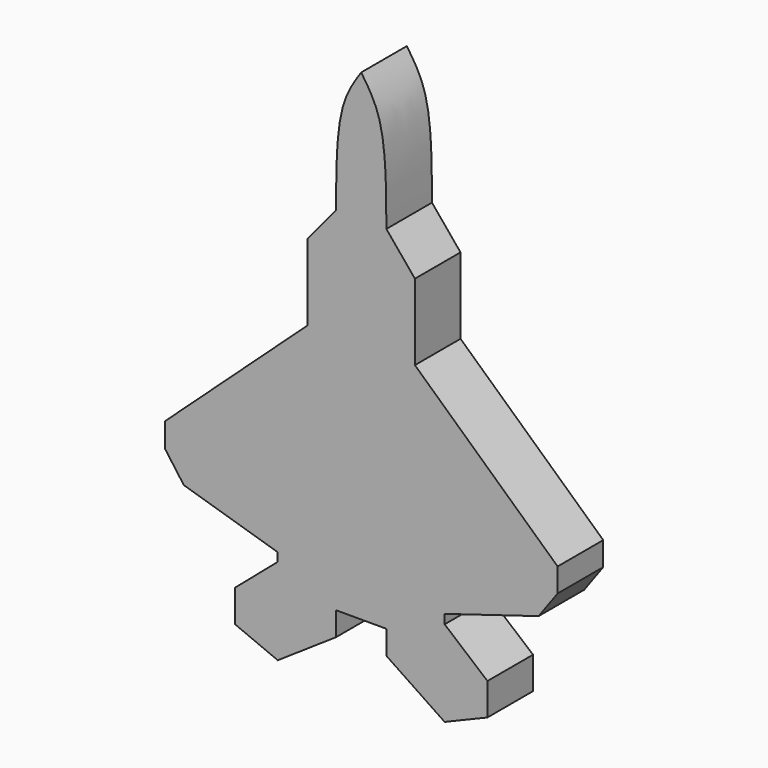
from build123d import *

# Parameters (mm, degrees)
F0_W     = 25.4
F0_H     = 25.4
F1_DEPTH = 6.35
F3_DEPTH = 2.54
F4_W     = 6.35
F4_H     = 25.4
F5_DEPTH = 25.4010001
F7_DEPTH = 2.5410001
F9_DEPTH = 2.5410001


with BuildPart() as f1:
    # F0 (on Front) → F1 (new body)
    with BuildSketch(Plane.XZ):
        Rectangle(F0_W, F0_H)
    extrude(amount=F1_DEPTH)

    # F2 (on face) → F3 (join)
    with BuildSketch(Plane.XZ.offset(6.35)):
        with BuildLine():
            add(Edge.make_bspline(
                [(0, 12.0295938104), (-0.3149582598, 11.5638402948), (-1.1067667998, 10.3929308176), (-1.116096827, 7.8107129391), (-1.1217156425, 6.2556257471)],
                knots=[0, 0, 0, 0, 0.3977707284, 1, 1, 1, 1], degree=3))
            Line((-1.1217156425, 6.2556257471), (-2.3930480238, 4.719432909))
            Line((-2.3930480238, 4.719432909), (-2.3930480238, 1.329213148))
            Line((-2.3930480238, 1.329213148), (-8.7497094646, -4.4977269135))
            Line((-8.7497094646, -4.4977269135), (-8.7497094646, -5.5571701378))
            Line((-8.7497094646, -5.5571701378), (-7.902154699, -6.7225582898))
            Line((-7.902154699, -6.7225582898), (-3.7173526362, -7.9938909039))
            Line((-3.7173526362, -7.9938909039), (-5.6243510917, -10.0068338215))
            Line((-5.6243510917, -10.0068338215), (-5.6243510917, -11.4370826632))
            Line((-5.6243510917, -11.4370826632), (-3.7173526362, -12.2316647321))
            Line((-3.7173526362, -12.2316647321), (-1.1217156425, -10.4835834354))
            Line((-1.1217156425, -10.4835834354), (-1.1217156425, -9.4241397455))
            Line((-1.1217156425, -9.4241397455), (1.1217156425, -9.4241397455))
            Line((1.1217156425, -9.4241397455), (1.1217156425, -10.4835834354))
            Line((1.1217156425, -10.4835834354), (3.7173526362, -12.2316647321))
            Line((3.7173526362, -12.2316647321), (5.6243510917, -11.4370826632))
            Line((5.6243510917, -11.4370826632), (5.6243510917, -10.0068338215))
            Line((5.6243510917, -10.0068338215), (3.7173526362, -7.9938909039))
            Line((3.7173526362, -7.9938909039), (7.902154699, -6.7225582898))
            Line((7.902154699, -6.7225582898), (8.7497094646, -5.5571701378))
            Line((8.7497094646, -5.5571701378), (8.7497094646, -4.4977269135))
            Line((8.7497094646, -4.4977269135), (2.3930480238, 1.329213148))
            Line((2.3930480238, 1.329213148), (2.3930480238, 4.719432909))
            Line((2.3930480238, 4.719432909), (1.1217156425, 6.2556257471))
            add(Edge.make_bspline(
                [(0, 12.0295938104), (0.3149582598, 11.5638402948), (1.1067667998, 10.3929308176), (1.116096827, 7.8107129391), (1.1217156425, 6.2556257471)],
                knots=[0, 0, 0, 0, 0.3977707284, 1, 1, 1, 1], degree=3))
        make_face()
    extrude(amount=F3_DEPTH)

    # F4 (on face) → F5 (cut, through all)
    with BuildSketch(Plane.YZ.offset(12.7)):
        with Locations((-3.175, 0)):
            Rectangle(F4_W, F4_H)
    extrude(amount=-F5_DEPTH, mode=Mode.SUBTRACT)

    # F6 (on face) → F7 (cut, through all)
    with BuildSketch(Plane.XZ.offset(8.89)):
        Polygon((-3.7173526362, -7.9938909039), (-5.6243510917, -10.0068338215), (-3.7173526362, -8.3735641092), align=None)
    extrude(amount=-F7_DEPTH, mode=Mode.SUBTRACT)

    # F8 (on face) → F9 (cut, through all)
    with BuildSketch(Plane.XZ.offset(8.89)):
        Polygon((3.7173526362, -8.4037045017), (5.6243510917, -10.0068338215), (3.7173526362, -7.9938909039), align=None)
    extrude(amount=-F9_DEPTH, mode=Mode.SUBTRACT)


solid = f1.part
